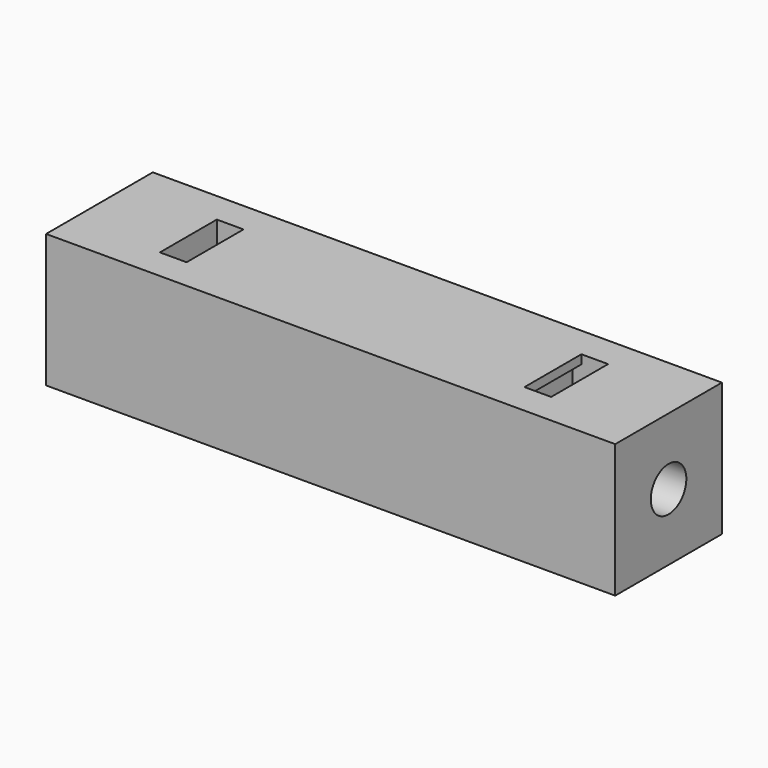
from build123d import *

# Parameters (mm, degrees)
F0_W     = 64
F0_H     = 15
F1_DEPTH = 15
F2_R     = 2.5
F3_DEPTH = 64.001
F4_W     = 4
F4_H     = 8
F5_DEPTH = 11.5
F6_W     = 1
F6_H     = 8
F7_DEPTH = 1


with BuildPart() as f1:
    # F0 (on Top) → F1 (new body)
    with BuildSketch(Plane.XY):
        with Locations((32, 7.5)):
            Rectangle(F0_W, F0_H)
    extrude(amount=F1_DEPTH)

    # F2 (on face) → F3 (cut, through all)
    with BuildSketch(Plane.YZ.offset(64)):
        with Locations((7.5, 7.5)):
            Circle(F2_R)
    extrude(amount=-F3_DEPTH, mode=Mode.SUBTRACT)

    # F4 (on face) → F5 (cut)
    with BuildSketch(Plane.XY.offset(15)):
        with Locations((12, 7.5)):
            Rectangle(F4_W, F4_H)
        with Locations((52, 7.5)):
            Rectangle(F4_W, F4_H)
    extrude(amount=-F5_DEPTH, mode=Mode.SUBTRACT)

    # F6 (on face) → F7 (join)
    with BuildSketch(Plane.XY.offset(15)):
        with Locations((13.5, 7.5)):
            Rectangle(F6_W, F6_H)
        with Locations((50.5, 7.5)):
            Rectangle(F6_W, F6_H)
    extrude(amount=-F7_DEPTH)


solid = f1.part
